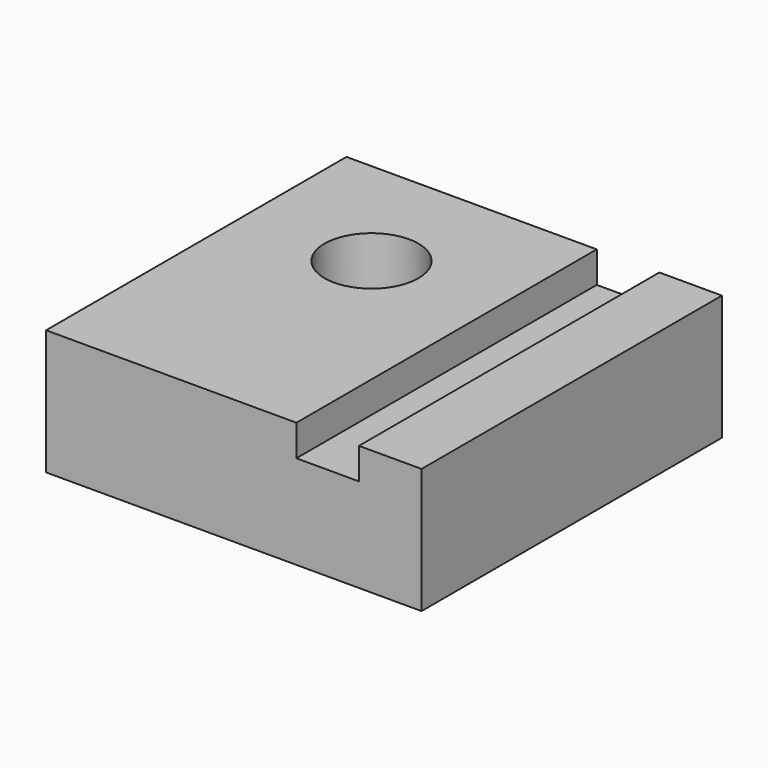
from build123d import *

# Parameters (mm, degrees)
F1_DEPTH = 76.2
F2_R     = 9.525
F3_DEPTH = 25.401


with BuildPart() as f1:
    # F0 (on Front) → F1 (new body)
    with BuildSketch(Plane.XZ):
        Polygon((50.8, 25.4), (0, 25.4), (0, 0), (76.2, 0), (76.2, 25.4), (63.5, 25.4), (63.5, 19.05), (50.8, 19.05), align=None)
    extrude(amount=F1_DEPTH)

    # F2 (on face) → F3 (cut, through all)
    with BuildSketch(Plane.XY.offset(25.4)):
        with Locations((25.4, -25.4)):
            Circle(F2_R)
    extrude(amount=-F3_DEPTH, mode=Mode.SUBTRACT)


solid = f1.part
